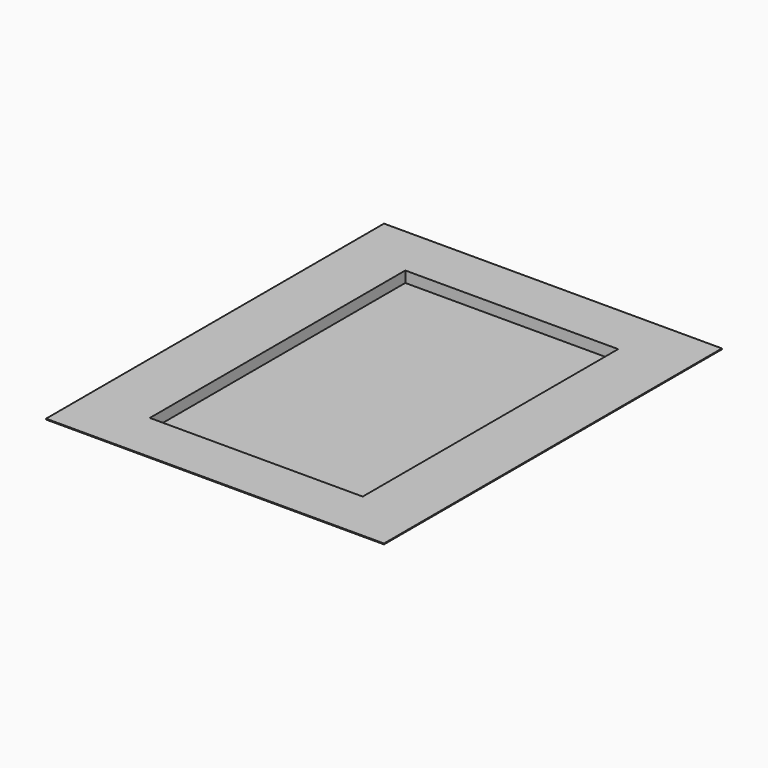
from build123d import *

# Parameters (mm, degrees)
F0_W      = 3200.4
F0_H      = 4800.6
F1_DEPTH  = 12.7
F2_W      = 3225.8
F2_H      = 4826
F2_W_2    = 3200.4
F2_H_2    = 4800.6
F3_DEPTH  = 165.1
F4_W      = 4826
F4_H      = 12.7
F5_DEPTH  = 2540
F6_DEPTH  = 1600.2
F7_W      = 5080
F7_H      = 12.7
F8_DEPTH  = 3175
F9_W      = 3200.4
F9_H      = 12.7
F10_DEPTH = 2400.3


with BuildPart() as f1:
    # F0 (on Top) → F1 (new body)
    with BuildSketch(Plane.XY):
        Rectangle(F0_W, F0_H)
    extrude(amount=F1_DEPTH)

    # F2 (on Top) → F3 (join)
    with BuildSketch(Plane.XY):
        Rectangle(F2_W, F2_H)
        Rectangle(F2_W_2, F2_H_2, mode=Mode.SUBTRACT)
    extrude(amount=F3_DEPTH)

    # F4 (on Right) → F5 (join, symmetric)
    with BuildSketch(Plane.YZ):
        with Locations((0, 171.45)):
            Rectangle(F4_W, F4_H)
    extrude(amount=F5_DEPTH, both=True)

    # F4 (on Right) → F6 (cut, symmetric)
    with BuildSketch(Plane.YZ):
        with Locations((0, 171.45)):
            Rectangle(F4_W, F4_H)
    extrude(amount=F6_DEPTH, both=True, mode=Mode.SUBTRACT)

    # F7 (on Front) → F8 (join, symmetric)
    with BuildSketch(Plane.XZ):
        with Locations((0, 171.45)):
            Rectangle(F7_W, F7_H)
    extrude(amount=F8_DEPTH, both=True)

    # F9 (on Front) → F10 (cut, symmetric)
    with BuildSketch(Plane.XZ):
        with Locations((0, 171.45)):
            Rectangle(F9_W, F9_H)
    extrude(amount=F10_DEPTH, both=True, mode=Mode.SUBTRACT)


solid = f1.part
